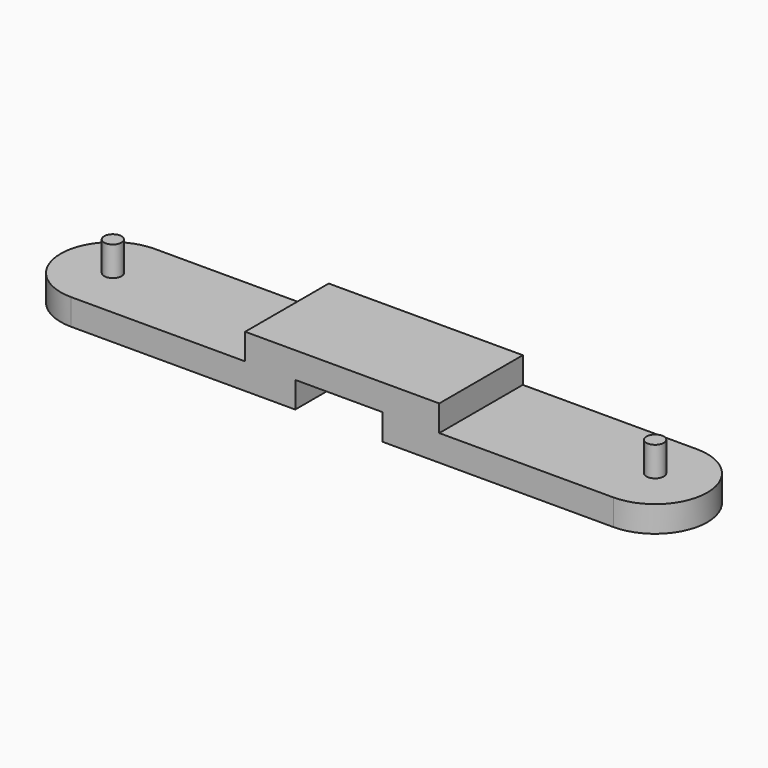
from build123d import *

# Parameters (mm, degrees)
F0_R     = 3.175
F1_DEPTH = 19.05
F2_R     = 3.175
F3_DEPTH = 9.525
F4_W     = 15.875
F4_H     = 31.190733
F5_DEPTH = 9.525
F6_R     = 3.175
F7_DEPTH = 20.32
F8_R     = 3.175
F9_DEPTH = 20.32


with BuildPart() as f1:
    # F0 (on Top) → F1 (new body)
    with BuildSketch(Plane.XY):
        with BuildLine():
            ThreePointArc((100.157061, 0.559267), (119.207061, 19.609267), (100.157061, 38.659267))
            Line((100.157061, 38.659267), (-97.640359, 38.659267))
            ThreePointArc((-97.640359, 38.659267), (-116.690359, 19.609267), (-97.640359, 0.559267))
            Line((-97.640359, 0.559267), (100.157061, 0.559267))
        make_face()
        with Locations((-97.640359, 19.609267)):
            Circle(F0_R, mode=Mode.SUBTRACT)
        with Locations((100.157061, 19.609267)):
            Circle(F0_R, mode=Mode.SUBTRACT)
    extrude(amount=F1_DEPTH)

    # F2 (on face) → F3 (cut)
    with BuildSketch(Plane.XY.offset(19.05)):
        with Locations((-97.640359, 19.609267)):
            Circle(F2_R)
        with Locations((100.157061, 19.609267)):
            Circle(F2_R)
        with BuildLine():
            ThreePointArc((100.149441, -5.790733), (125.549441, 19.609267), (100.149441, 45.009267))
            Line((100.149441, 45.009267), (36.649441, 45.009267))
            Line((36.649441, 45.009267), (36.649441, -5.790733))
            Line((36.649441, -5.790733), (100.149441, -5.790733))
        make_face()
        with Locations((100.157061, 19.609267)):
            Circle(F2_R, mode=Mode.SUBTRACT)
        with BuildLine():
            Line((-34.140359, -5.790733), (-34.140359, 45.009267))
            Line((-34.140359, 45.009267), (-97.640359, 45.009267))
            ThreePointArc((-97.640359, 45.009267), (-123.040359, 19.609267), (-97.640359, -5.790733))
            Line((-97.640359, -5.790733), (-34.140359, -5.790733))
        make_face()
        with Locations((-97.640359, 19.609267)):
            Circle(F2_R, mode=Mode.SUBTRACT)
        with BuildLine():
            ThreePointArc((100.149441, -5.790733), (125.549441, 19.609267), (100.149441, 45.009267))
            Line((100.149441, 45.009267), (36.649441, 45.009267))
            Line((36.649441, 45.009267), (36.649441, -5.790733))
            Line((36.649441, -5.790733), (100.149441, -5.790733))
        make_face()
        with Locations((100.157061, 19.609267)):
            Circle(F2_R, mode=Mode.SUBTRACT)
    extrude(amount=-F3_DEPTH, mode=Mode.SUBTRACT)

    # F4 (on face) → F5 (cut)
    with BuildSketch(Plane(origin=(0, 0, 0), x_dir=(1, 0, 0), z_dir=(0, 0, -1))):
        Polygon((-15.875, 0), (-15.875, -19.609267), (0, -19.609267), (15.875, -19.609267), (15.875, 0), align=None)
        with Locations((-7.9375, -35.204633)):
            Rectangle(F4_W, F4_H)
        with Locations((7.9375, -35.204633)):
            Rectangle(F4_W, F4_H)
    extrude(amount=-F5_DEPTH, mode=Mode.SUBTRACT)

    # F6 (on face) → F7 (join)
    with BuildSketch(Plane(origin=(0, 0, 0), x_dir=(1, 0, 0), z_dir=(0, 0, -1))):
        with Locations((-97.640359, -19.609267)):
            Circle(F6_R)
    extrude(amount=-F7_DEPTH)

    # F8 (on face) → F9 (join)
    with BuildSketch(Plane(origin=(0, 0, 0), x_dir=(1, 0, 0), z_dir=(0, 0, -1))):
        with Locations((100.157061, -19.609267)):
            Circle(F8_R)
    extrude(amount=-F9_DEPTH)


solid = f1.part
